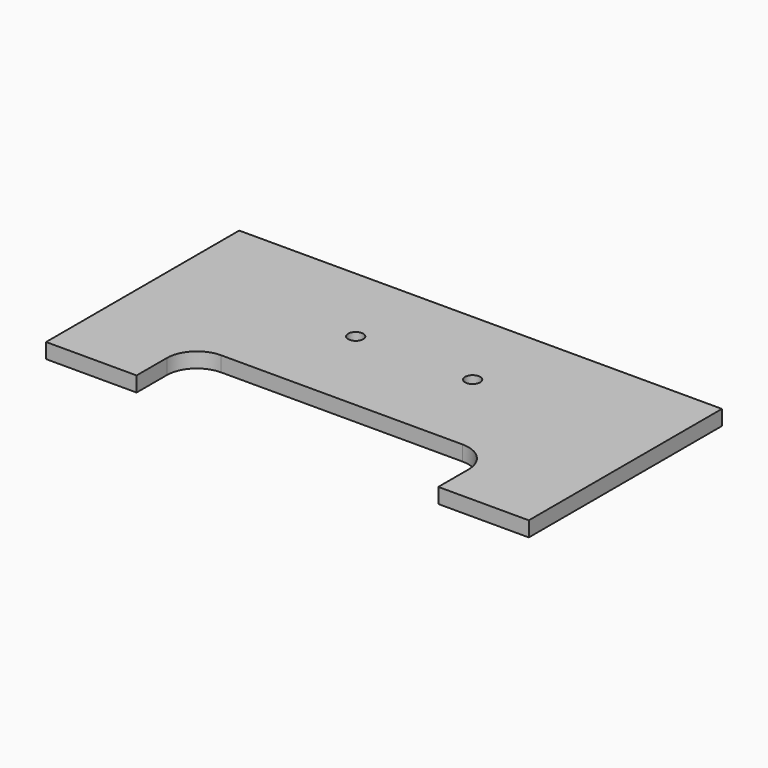
from build123d import *

# Parameters (mm, degrees)
F0_R     = 3.175
F1_DEPTH = 6.35
F2_R     = 12.7


with BuildPart() as f1:
    # F0 (on Top) → F1 (new body)
    with BuildSketch(Plane.XY):
        Polygon((0, 101.6), (-101.6, 101.6), (-101.6, 0), (-63.5, 0), (-63.5, 28.575), (0, 28.575), align=None)
        with Locations((-24.60625, 66.675)):
            Circle(F0_R, mode=Mode.SUBTRACT)
        Polygon((101.6, 101.6), (0, 101.6), (0, 28.575), (63.5, 28.575), (63.5, 0), (101.6, 0), align=None)
        with Locations((24.60625, 66.675)):
            Circle(F0_R, mode=Mode.SUBTRACT)
    extrude(amount=F1_DEPTH)

    # F2
    f2_edges = [f1.edges().sort_by_distance(p)[0] for p in [
        (-63.5, 28.575, 3.175),
        (63.5, 28.575, 3.175),
    ]]
    fillet(f2_edges, radius=F2_R)


solid = f1.part
